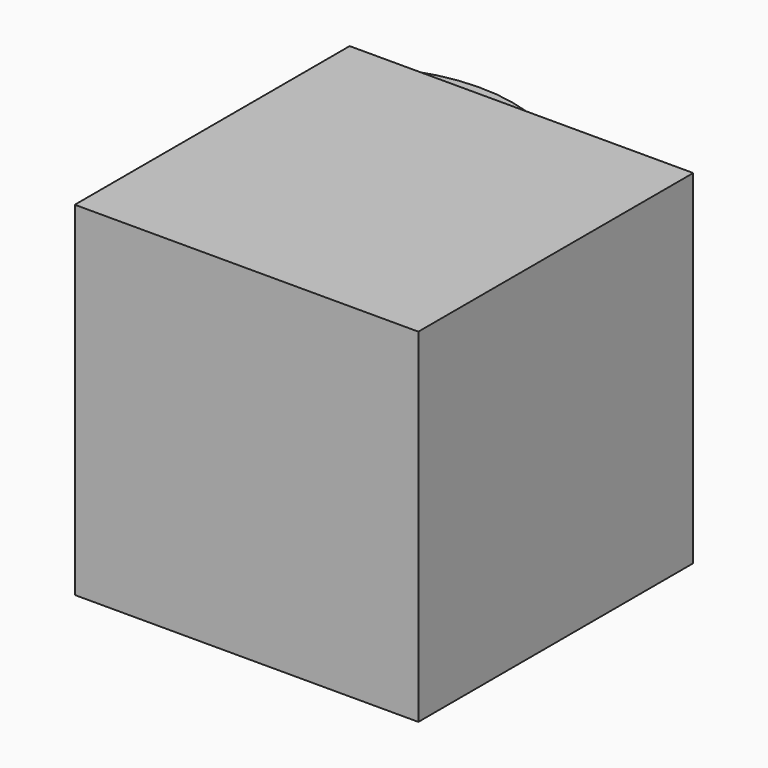
from build123d import *

# Parameters (mm, degrees)
F0_W     = 100
F0_H     = 100
F1_DEPTH = 100
F2_R     = 47.40298
F3_DEPTH = 70
F4_R     = 47.561865
F5_DEPTH = 70
F6_R     = 35
F7_DEPTH = 47.562865


with BuildPart() as f1:
    # F0 (on Front) → F1 (new body)
    with BuildSketch(Plane.XZ):
        with Locations((50, 50)):
            Rectangle(F0_W, F0_H)
    extrude(amount=F1_DEPTH)

    # F2 (on Top) → F3 (join)
    with BuildSketch(Plane.XY):
        Circle(F2_R)
    extrude(amount=F3_DEPTH)

    # F4 (on Top) → F5 (join)
    with BuildSketch(Plane.XY):
        Circle(F4_R)
    extrude(amount=F5_DEPTH)

    # F6 (on Right) → F7 (cut, through all)
    with BuildSketch(Plane.YZ):
        with Locations((0, 58.089419)):
            Circle(F6_R)
    extrude(amount=-F7_DEPTH, mode=Mode.SUBTRACT)


solid = f1.part
